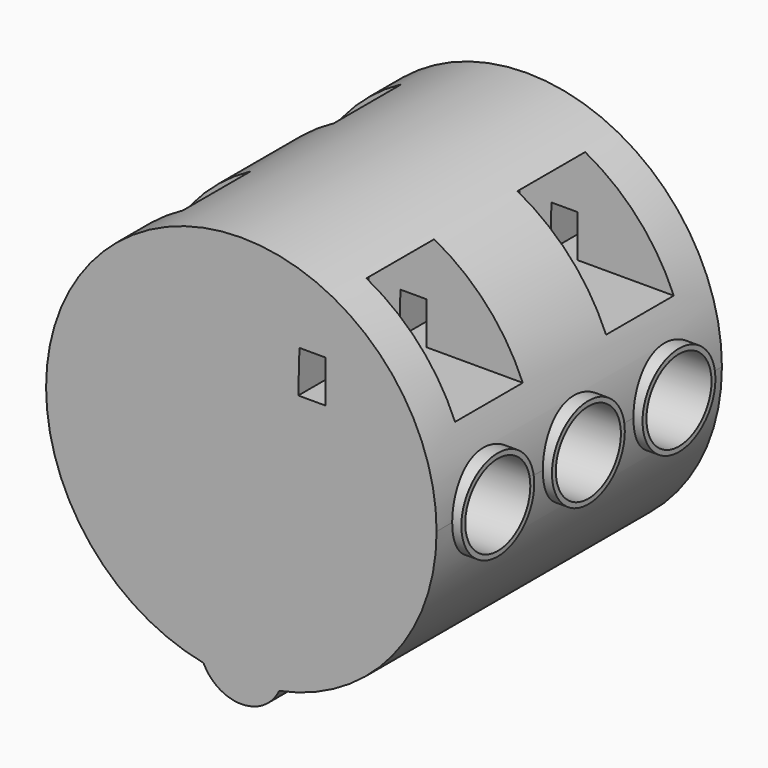
from build123d import *

# Parameters (mm, degrees)
F0_R      = 76.2
F1_DEPTH  = 69.596
F3_R      = 17.78
F4_DEPTH  = 159.004
F5_R      = 15.875
F6_DEPTH  = 258.064
F7_W      = 59.475604
F7_H      = 45.754954
F8_DEPTH  = 139.7
F9_W      = 33.02
F9_H      = 38.1
F10_DEPTH = 170.434
F11_W     = 20.298936
F11_H     = 62.223652
F12_DEPTH = 135.128
F13_R     = 16.35239
F14_DEPTH = 69.596
F16_DEPTH = 136.652


with BuildPart() as f1:
    # F0 (on Front) → F1 (new body, symmetric)
    with BuildSketch(Plane.XZ):
        Circle(F0_R)
    extrude(amount=F1_DEPTH, both=True)

    # F3 (on offset) → F4 (join)
    with BuildSketch(Plane.YZ.offset(79.756)):
        with Locations((-44.196, 0)):
            Circle(F3_R)
        Circle(F3_R)
        with Locations((44.196, 0)):
            Circle(F3_R)
    extrude(amount=-F4_DEPTH)

    # F5 (on offset) → F6 (cut)
    with BuildSketch(Plane.YZ.offset(79.756)):
        with Locations((-44.196, 0)):
            Circle(F5_R)
        Circle(F5_R)
        with Locations((44.196, 0)):
            Circle(F5_R)
    extrude(amount=-F6_DEPTH, mode=Mode.SUBTRACT)

    # F7 (on face) → F8 (join)
    with BuildSketch(Plane.XZ.offset(69.596)):
        Rectangle(F7_W, F7_H)
    extrude(amount=-F8_DEPTH)

    # F9 (on offset) → F10 (cut)
    with BuildSketch(Plane.YZ.offset(79.756)):
        with Locations((-36.83, 48.198743)):
            Rectangle(F9_W, F9_H)
        with Locations((36.83, 48.198743)):
            Rectangle(F9_W, F9_H)
    extrude(amount=-F10_DEPTH, mode=Mode.SUBTRACT)

    # F11 (on face) → F12 (join)
    with BuildSketch(Plane(origin=(0, 69.596, 0), x_dir=(-1, 0, 0), z_dir=(0, 1, 0))):
        with Locations((0, 44.409219)):
            Rectangle(F11_W, F11_H)
    extrude(amount=-F12_DEPTH)

    # F13 (on Front) → F14 (join, symmetric)
    with BuildSketch(Plane.XZ):
        with Locations((0, -67.743778)):
            Circle(F13_R)
    extrude(amount=F14_DEPTH, both=True)

    # F15 (on face) → F16 (cut, symmetric)
    with BuildSketch(Plane(origin=(0, -53.34, 0), x_dir=(-1, 0, 0), z_dir=(0, 1, 0))):
        Polygon((-32.835285, 45.658743), (-32.835285, 29.148743), (-22.216139, 29.148743), (-22.675285, 45.658743), align=None)
    extrude(amount=F16_DEPTH, both=True, mode=Mode.SUBTRACT)


solid = f1.part
